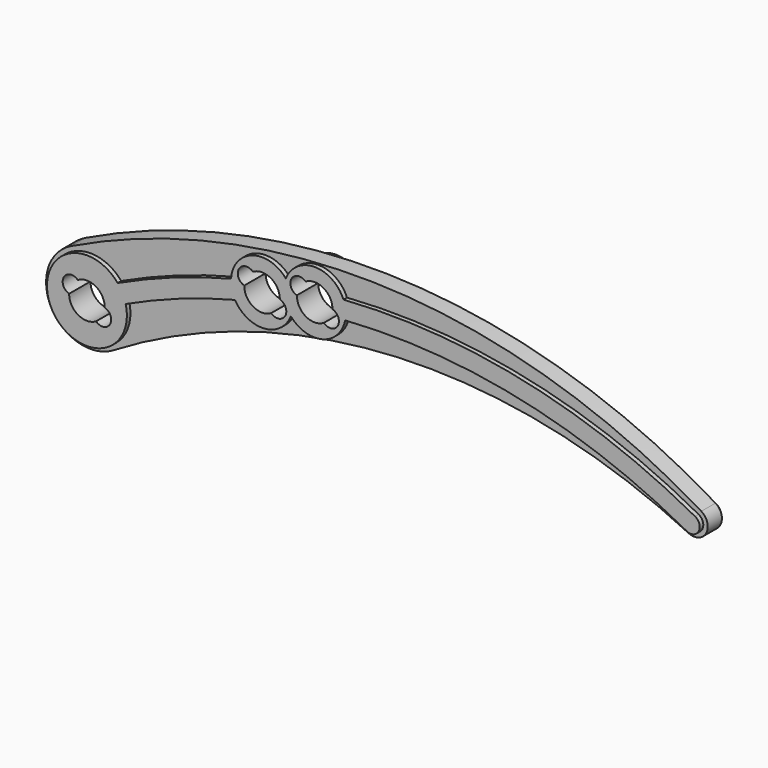
from build123d import *

# Parameters (mm, degrees)
F1_DEPTH = 1
F3_DEPTH = 1.5
F5_DEPTH = 3.001


with BuildPart() as f1:
    # F0 (on Front) → F1 (new body, symmetric)
    with BuildSketch(Plane.XZ):
        with BuildLine():
            ThreePointArc((68.7761805926, 1.2835667835), (33.7017703575, 11.9240825949), (-2.1902850165, 4.4947359819))
            ThreePointArc((-2.1902850165, 4.4947359819), (-4.3911344557, -2.3912210671), (2.5872686419, -4.278555945))
            ThreePointArc((2.5872686419, -4.278555945), (34.592048198, 5.4307267094), (67.3429144951, -1.3484207946))
            ThreePointArc((67.3429144951, -1.3484207946), (69.3173403367, -0.7173663201), (68.7761805926, 1.2835667835))
        make_face()
    extrude(amount=F1_DEPTH, both=True)

    # F2 (on Front) → F3 (join, symmetric)
    with BuildSketch(Plane.XZ):
        with BuildLine():
            ThreePointArc((16.2250227063, 7.4472055889), (9.7355101111, 5.4623847447), (3.4618675547, 2.874973571))
            ThreePointArc((3.4618675547, 2.874973571), (-4.0144119209, -2.0333462394), (4.3660093294, 1.0899369411))
            ThreePointArc((4.3660093294, 1.0899369411), (10.4167772399, 3.581978337), (16.6739491432, 5.4976668288))
            ThreePointArc((16.6739491432, 5.4976668288), (19.9548297013, 3.7331037029), (22.9673717281, 5.9245531772))
            ThreePointArc((22.9673717281, 5.9245531772), (26.5172230695, 4.7947674828), (29.0743645644, 7.5038056215))
            ThreePointArc((29.0743645644, 7.5038056215), (48.8990908767, 6.0722634585), (67.5207768882, -0.8776931178))
            ThreePointArc((67.5207768882, -0.8776931178), (68.8776931178, -0.4792231118), (68.4792231118, 0.8776931178))
            ThreePointArc((68.4792231118, 0.8776931178), (49.3016635675, 8.0314710303), (28.8856869412, 9.495447426))
            ThreePointArc((28.8856869412, 9.495447426), (25.6346945373, 11.6832952033), (22.3915524813, 9.4838272879))
            ThreePointArc((22.3915524813, 9.4838272879), (18.6203358432, 10.5485124881), (16.2250227063, 7.4472055889))
        make_face()
    extrude(amount=F3_DEPTH, both=True)

    # F4 (on face) → F5 (cut, through all)
    with BuildSketch(Plane.XZ.offset(1.5)):
        with BuildLine():
            ThreePointArc((1.0314215383, -1.7135254916), (2.5980762114, -1.5), (1.9996673749, -0.0364745084))
            ThreePointArc((1.9996673749, -0.0364745084), (1, 1.7320508076), (-1.0314215383, 1.7135254916))
            ThreePointArc((-1.0314215383, 1.7135254916), (-2.5980762114, 1.5), (-1.9996673749, 0.0364745084))
            ThreePointArc((-1.9996673749, 0.0364745084), (-1, -1.7320508076), (1.0314215383, -1.7135254916))
        make_face()
        with BuildLine():
            ThreePointArc((20.7493885716, 5.5115541672), (22.3160432446, 5.7250796588), (21.7176344082, 7.1886051503))
            ThreePointArc((21.7176344082, 7.1886051503), (20.7179670333, 8.9571304663), (18.6865454949, 8.9386051503))
            ThreePointArc((18.6865454949, 8.9386051503), (17.1198908219, 8.7250796588), (17.7182996584, 7.2615541672))
            ThreePointArc((17.7182996584, 7.2615541672), (18.7179670333, 5.4930288512), (20.7493885716, 5.5115541672))
        make_face()
        with BuildLine():
            ThreePointArc((26.6723787145, 6.4697753147), (28.2390333875, 6.6833008063), (27.640624551, 8.1468262978))
            ThreePointArc((27.640624551, 8.1468262978), (26.6409571761, 9.9153516138), (24.6095356378, 9.8968262978))
            ThreePointArc((24.6095356378, 9.8968262978), (23.0428809648, 9.6833008063), (23.6412898012, 8.2197753147))
            ThreePointArc((23.6412898012, 8.2197753147), (24.6409571761, 6.4512499987), (26.6723787145, 6.4697753147))
        make_face()
    extrude(amount=-F5_DEPTH, mode=Mode.SUBTRACT)


solid = f1.part
